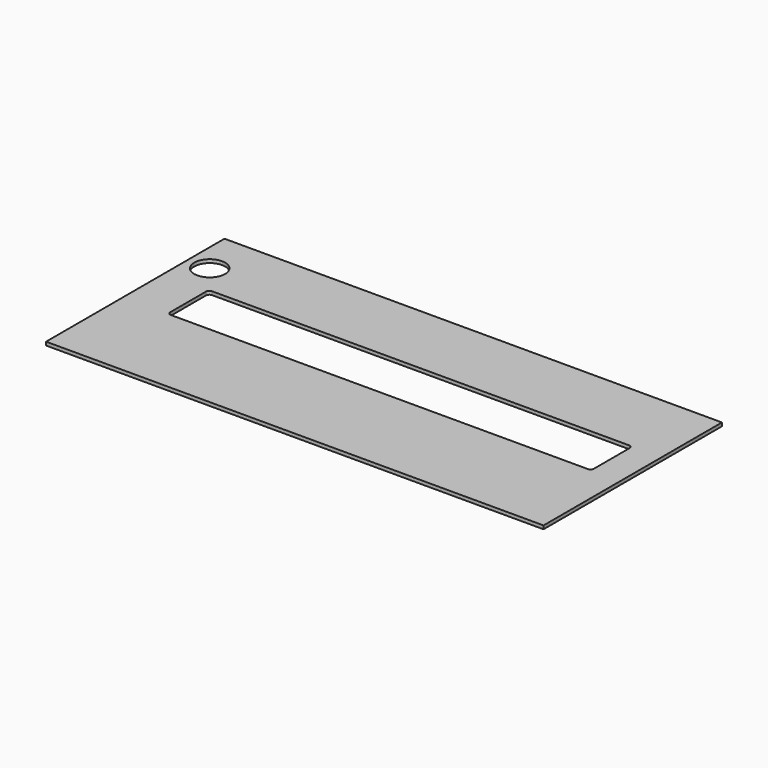
from build123d import *

# Parameters (mm, degrees)
F0_W     = 145
F0_H     = 65
F0_R     = 4.5
F1_DEPTH = 1


with BuildPart() as f1:
    # F0 (on Top) → F1 (new body)
    with BuildSketch(Plane.XY):
        with Locations((72.5, 32.5)):
            Rectangle(F0_W, F0_H)
        with Locations((6.5, 51.5)):
            Circle(F0_R, mode=Mode.SUBTRACT)
        with BuildLine():
            ThreePointArc((13, 42), (13.292893, 42.707107), (14, 43))
            Line((14, 43), (135.5, 43))
            ThreePointArc((135.5, 43), (136.207107, 42.707107), (136.5, 42))
            Line((136.5, 42), (136.5, 29))
            ThreePointArc((136.5, 29), (136.207107, 28.292893), (135.5, 28))
            Line((135.5, 28), (14, 28))
            ThreePointArc((14, 28), (13.292893, 28.292893), (13, 29))
            Line((13, 29), (13, 42))
        make_face(mode=Mode.SUBTRACT)
    extrude(amount=F1_DEPTH)


solid = f1.part
